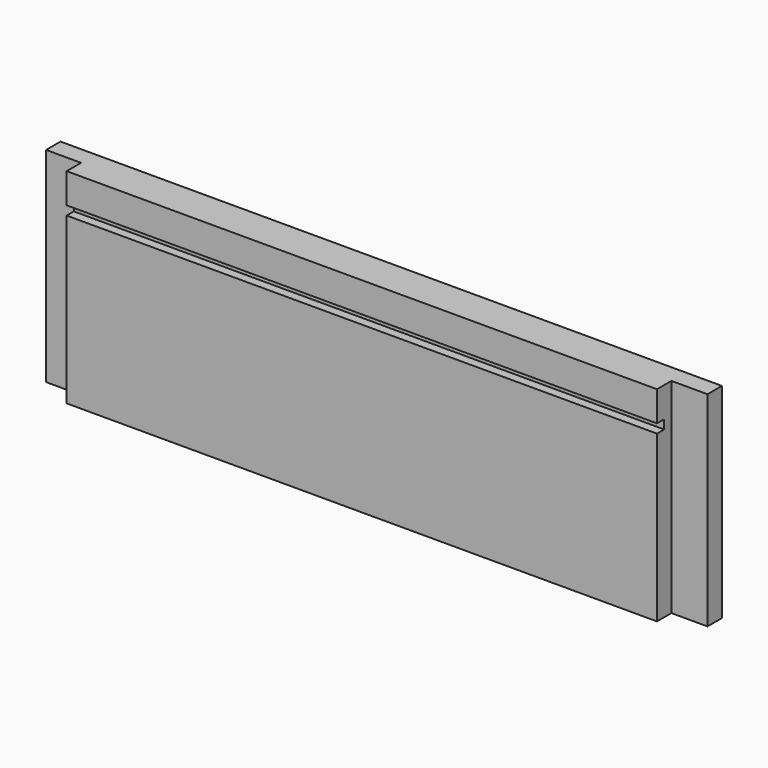
from build123d import *

# Parameters (mm, degrees)
F0_W     = 220
F0_H     = 68
F1_DEPTH = 12
F2_W     = 3
F2_H     = 3
F3_DEPTH = 300
F4_W     = 12
F4_H     = 68
F5_DEPTH = 6


with BuildPart() as f1:
    # F0 (on Front) → F1 (new body)
    with BuildSketch(Plane.XZ):
        Rectangle(F0_W, F0_H)
    extrude(amount=F1_DEPTH)

    # F2 (on face) → F3 (cut)
    with BuildSketch(Plane(origin=(-110, 0, 0), x_dir=(0, -1, 0), z_dir=(-1, 0, 0))):
        with Locations((10.5, 22.5)):
            Rectangle(F2_W, F2_H)
    extrude(amount=-F3_DEPTH, mode=Mode.SUBTRACT)

    # F4 (on face) → F5 (cut)
    with BuildSketch(Plane.XZ.offset(12)):
        with Locations((-104.358618, 0)):
            Rectangle(F4_W, F4_H)
        with Locations((104, 0)):
            Rectangle(F4_W, F4_H)
    extrude(amount=-F5_DEPTH, mode=Mode.SUBTRACT)


solid = f1.part
